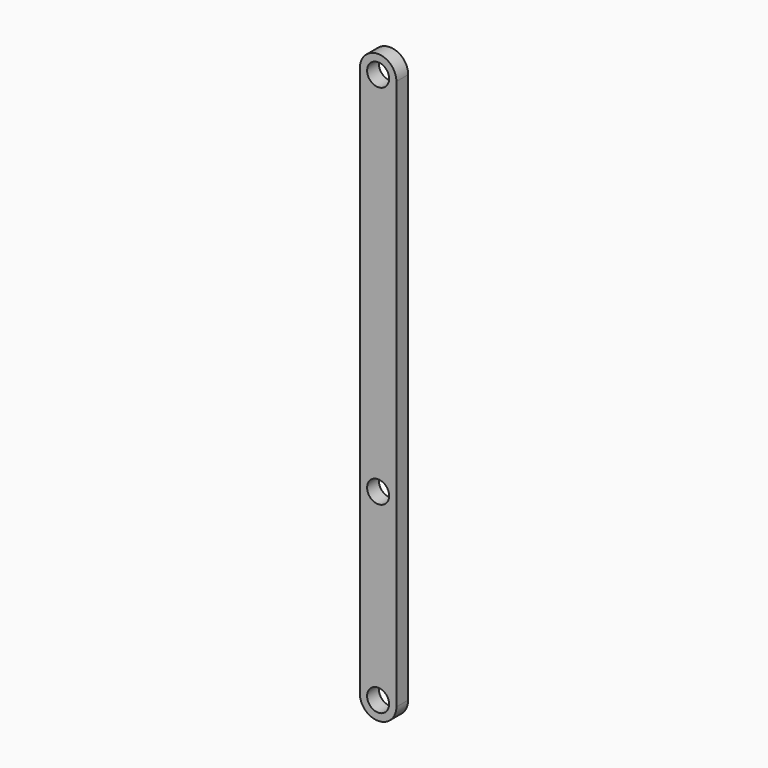
from build123d import *

# Parameters (mm, degrees)
F0_R     = 1.4986
F1_DEPTH = 1.0033


with BuildPart() as f1:
    # F0 (on Front) → F1 (new body, symmetric)
    with BuildSketch(Plane.XZ):
        with BuildLine():
            Line((2.4892, -37.5031), (2.4892, 37.5031))
            ThreePointArc((2.4892, 37.5031), (0, 39.9923), (-2.4892, 37.5031))
            Line((-2.4892, 37.5031), (-2.4892, -37.5031))
            ThreePointArc((-2.4892, -37.5031), (0, -39.9923), (2.4892, -37.5031))
        make_face()
        with Locations((0, -37.5031)):
            Circle(F0_R, mode=Mode.SUBTRACT)
        with Locations((0, -12.5095)):
            Circle(F0_R, mode=Mode.SUBTRACT)
        with Locations((0, 37.5031)):
            Circle(F0_R, mode=Mode.SUBTRACT)
    extrude(amount=F1_DEPTH, both=True)


solid = f1.part
